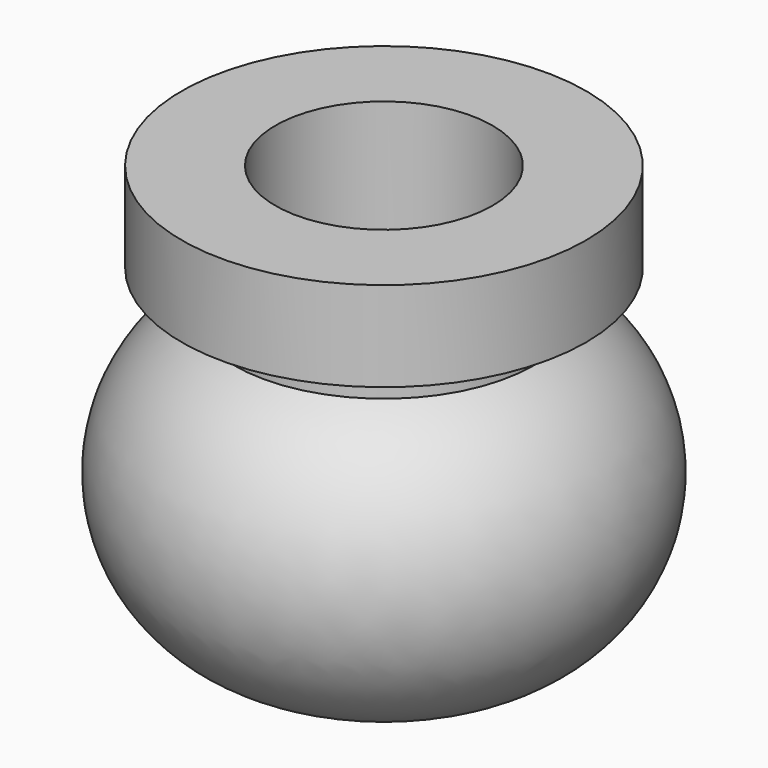
from build123d import *

# Parameters (mm, degrees)
F2_R     = 1.45
F3_DEPTH = 5.748091


with BuildPart() as f1:
    # F0 (on Front) → F1 (revolve)
    with BuildSketch(Plane.XZ):
        with BuildLine():
            Line((2.7, 5.161797), (0, 5.161797))
            Line((0, 5.161797), (0, -0.338203))
            ThreePointArc((0, -0.338203), (2.9, 0.561797), (2, 3.461797))
            Line((2, 3.461797), (2, 3.961797))
            Line((2, 3.961797), (2.7, 3.961797))
            Line((2.7, 3.961797), (2.7, 5.161797))
        make_face()
    revolve(axis=Axis((0, 0, -0.991725), (0, 0, -1)))

    # F2 (on face) → F3 (cut, through all)
    with BuildSketch(Plane.XY.offset(5.161797)):
        Circle(F2_R)
    extrude(amount=-F3_DEPTH, mode=Mode.SUBTRACT)


solid = f1.part
